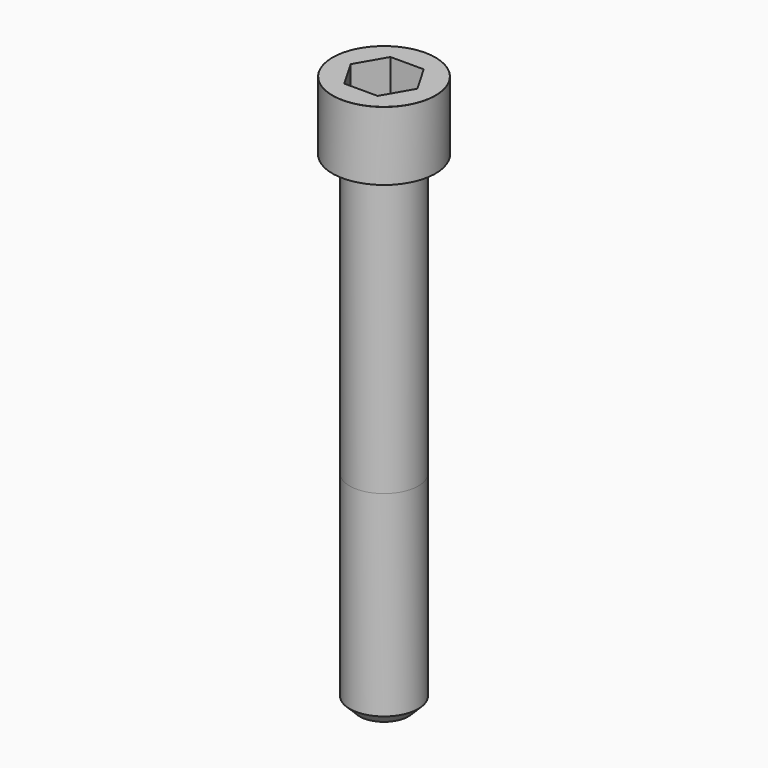
from build123d import *

# Parameters (mm, degrees)
POCKET_DEPTH = 10.07


with BuildPart() as part:
    # Sketch → Revolve (revolve)
    with BuildSketch(Plane.YZ):
        with BuildLine():
            Line((5.999, 0), (9, 0))
            Line((9, 0), (9, 11.97229))
            ThreePointArc((9, 11.97229), (8.991884, 11.991884), (8.97229, 12))
            Line((8.97229, 12), (0, 12))
            Line((0, -85), (0, 12))
            Line((4.25, -85), (0, -85))
            Line((6, -83.25), (4.25, -85))
            Line((6, -49), (6, -83.25))
            Line((5.999, 0), (6, -49))
        make_face()
    revolve(axis=Axis((0, 0, 0), (0, 0, 1)))

    # Sketch001 → Pocket (cut)
    with BuildSketch(Plane.XY.offset(12)):
        Polygon((5.813917, 0), (2.906959, 5.035), (-2.906959, 5.035), (-5.813917, 0), (-2.906959, -5.035), (2.906959, -5.035), align=None)
    extrude(amount=-POCKET_DEPTH, mode=Mode.SUBTRACT)


solid = part.part
